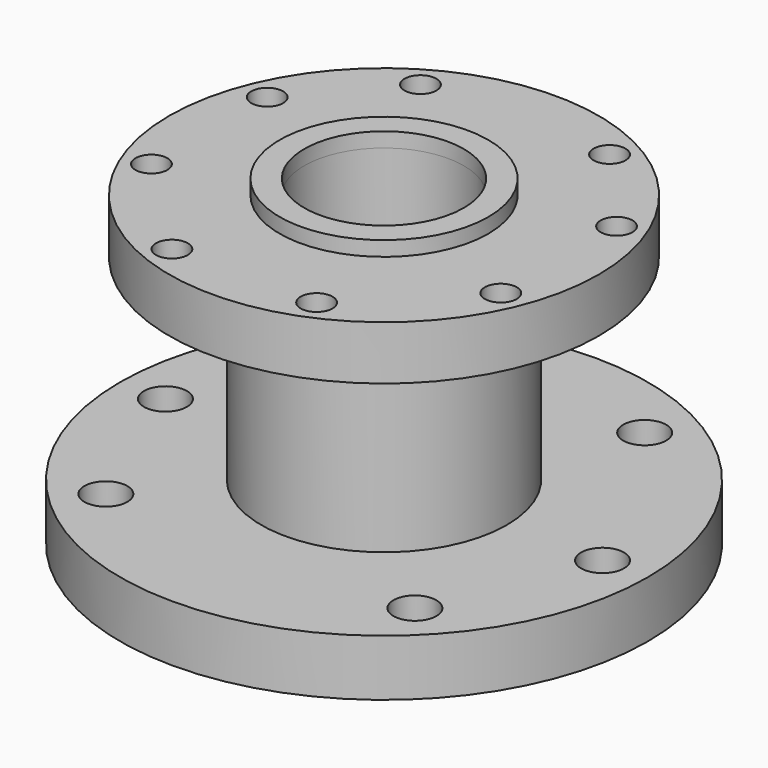
from build123d import *

# Parameters (mm, degrees)
F0_R      = 107.5
F1_DEPTH  = 23
F2_R      = 50
F3_DEPTH  = 80
F4_R      = 87.5
F4_R_2    = 50
F5_DEPTH  = 22
F6_R      = 42.5
F6_R_2    = 32.5
F7_DEPTH  = 6
F7_FACE_R = 32.5
F8_DEPTH  = 125.001
F9_R      = 77
F10_DEPTH = 6
F11_R     = 6.5
F12_DEPTH = 25
F13_R     = 8.75
F14_DEPTH = 25


with BuildPart() as f1:
    # F0 (on Top) → F1 (new body)
    with BuildSketch(Plane.XY):
        Circle(F0_R)
    extrude(amount=F1_DEPTH)

    # F2 (on face) → F3 (join)
    with BuildSketch(Plane.XY.offset(23)):
        Circle(F2_R)
    extrude(amount=F3_DEPTH)

    # F4 (on face) → F5 (join)
    with BuildSketch(Plane.XY.offset(103)):
        Circle(F4_R)
        Circle(F4_R_2, mode=Mode.SUBTRACT)
        Circle(F4_R_2)
    extrude(amount=F5_DEPTH)

    # F6 (on face) → F7 (join)
    with BuildSketch(Plane.XY.offset(125)):
        Circle(F6_R)
        Circle(F6_R_2, mode=Mode.SUBTRACT)
    extrude(amount=F7_DEPTH)

    # F7_face (on face) → F8 (cut, through all)
    with BuildSketch(Plane.XY.offset(125)):
        Circle(F7_FACE_R)
    extrude(amount=-F8_DEPTH, mode=Mode.SUBTRACT)

    # F9 (on face) → F10 (cut)
    with BuildSketch(Plane(origin=(0, 0, 0), x_dir=(1, 0, 0), z_dir=(0, 0, -1))):
        Circle(F9_R)
    extrude(amount=-F10_DEPTH, mode=Mode.SUBTRACT)

    # F11 (on face) → F12 (cut)
    with BuildSketch(Plane.XY.offset(125)):
        with Locations((-38.5, 66.683956)):
            Circle(F11_R)
        with Locations((38.5, 66.683956)):
            Circle(F11_R)
        with Locations((71.138724, 29.466624)):
            Circle(F11_R)
        with Locations((71.138724, -29.466624)):
            Circle(F11_R)
        with Locations((29.466624, -71.138724)):
            Circle(F11_R)
        with Locations((-29.466624, -71.138724)):
            Circle(F11_R)
        with Locations((-71.138724, -29.466624)):
            Circle(F11_R)
        with Locations((-71.138724, 29.466624)):
            Circle(F11_R)
    extrude(amount=-F12_DEPTH, mode=Mode.SUBTRACT)

    # F13 (on face) → F14 (cut)
    with BuildSketch(Plane(origin=(0, 0, 0), x_dir=(1, 0, 0), z_dir=(0, 0, -1))):
        with Locations((-62.932504, 62.932504)):
            Circle(F13_R)
        with Locations((62.932504, 62.932504)):
            Circle(F13_R)
        with Locations((89, 0)):
            Circle(F13_R)
        with Locations((44.5, -77.076261)):
            Circle(F13_R)
        with Locations((-44.5, -77.076261)):
            Circle(F13_R)
        with Locations((-89, 0)):
            Circle(F13_R)
    extrude(amount=-F14_DEPTH, mode=Mode.SUBTRACT)


solid = f1.part
